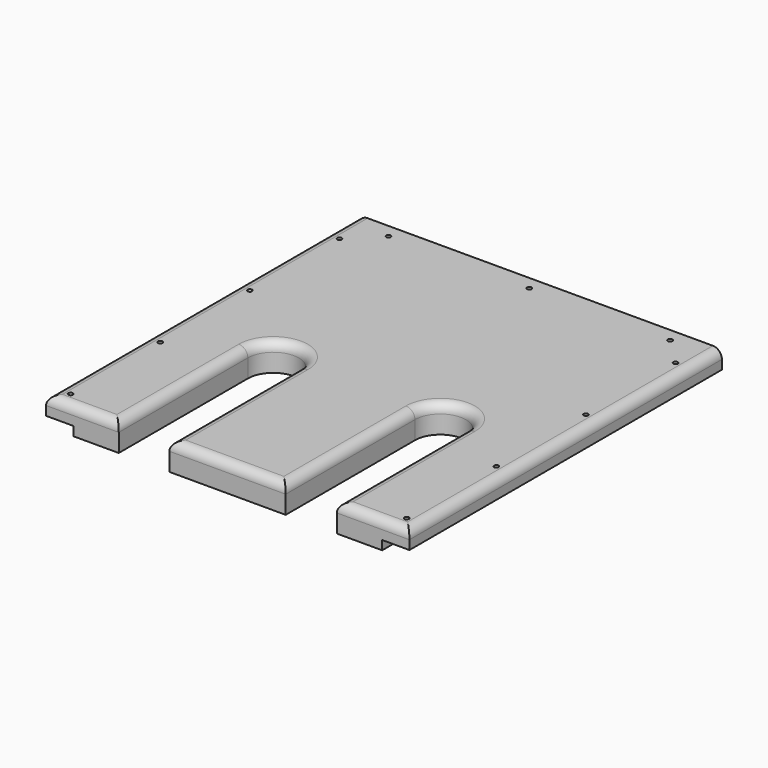
from build123d import *

# Parameters (mm, degrees)
F1_DEPTH = 19.05
F0_R     = 4.25
F2_DEPTH = 12.7
F0_R_2   = 1.5875
F3_DEPTH = 5
F4_R     = 6.35


with BuildPart() as f1:
    # F0 (on Top) → F1 (new body)
    with BuildSketch(Plane.XY):
        with BuildLine():
            Line((38.1, 270.509999), (38.1, 16.509999))
            Line((38.1, 16.509999), (69.85, 16.509999))
            Line((69.85, 16.509999), (69.85, 129.294202))
            ThreePointArc((69.85, 129.294202), (87.629852, 147.074053), (105.409704, 129.294202))
            Line((105.409704, 129.294202), (105.409704, 16.33076))
            Line((105.409704, 16.33076), (186.690297, 16.33076))
            Line((186.690297, 16.33076), (186.690297, 129.294202))
            ThreePointArc((186.690297, 129.294202), (204.470149, 147.074053), (222.25, 129.294202))
            Line((222.25, 129.294202), (222.25, 16.509999))
            Line((222.25, 16.509999), (254, 16.509999))
            Line((254, 16.509999), (254, 270.509999))
            Line((254, 270.509999), (38.1, 270.509999))
        make_face()
    extrude(amount=-F1_DEPTH)

    # F0 (on Top) → F2 (join)
    with BuildSketch(Plane.XY):
        Polygon((19.05, 289.559999), (19.05, 16.509999), (38.1, 16.509999), (38.1, 270.509999), (254, 270.509999), (254, 16.509999), (273.05, 16.509999), (273.05, 289.559999), align=None)
        with Locations((28.575, 26.034999)):
            Circle(F0_R, mode=Mode.SUBTRACT)
        with Locations((28.574999, 104.351665)):
            Circle(F0_R, mode=Mode.SUBTRACT)
        with Locations((263.525, 26.034999)):
            Circle(F0_R, mode=Mode.SUBTRACT)
        with Locations((263.525001, 104.351665)):
            Circle(F0_R, mode=Mode.SUBTRACT)
        with Locations((28.574999, 182.668321)):
            Circle(F0_R, mode=Mode.SUBTRACT)
        with Locations((28.575, 260.984987)):
            Circle(F0_R, mode=Mode.SUBTRACT)
        with Locations((47.625, 280.034989)):
            Circle(F0_R, mode=Mode.SUBTRACT)
        with Locations((263.525001, 182.668321)):
            Circle(F0_R, mode=Mode.SUBTRACT)
        with Locations((146.05, 280.034989)):
            Circle(F0_R, mode=Mode.SUBTRACT)
        with Locations((263.525, 260.984987)):
            Circle(F0_R, mode=Mode.SUBTRACT)
        with Locations((244.475, 280.034989)):
            Circle(F0_R, mode=Mode.SUBTRACT)
    extrude(amount=-F2_DEPTH)

    # F0 (on Top) → F3 (join)
    with BuildSketch(Plane.XY):
        with Locations((263.525, 26.034999)):
            Circle(F0_R)
        with Locations((263.525, 26.034999)):
            Circle(F0_R_2, mode=Mode.SUBTRACT)
        with Locations((263.525001, 104.351665)):
            Circle(F0_R)
        with Locations((263.525001, 104.351665)):
            Circle(F0_R_2, mode=Mode.SUBTRACT)
        with Locations((263.525001, 182.668321)):
            Circle(F0_R)
        with Locations((263.525001, 182.668321)):
            Circle(F0_R_2, mode=Mode.SUBTRACT)
        with Locations((263.525, 260.984987)):
            Circle(F0_R)
        with Locations((263.525, 260.984987)):
            Circle(F0_R_2, mode=Mode.SUBTRACT)
        with Locations((244.475, 280.034989)):
            Circle(F0_R)
        with Locations((244.475, 280.034989)):
            Circle(F0_R_2, mode=Mode.SUBTRACT)
        with Locations((146.05, 280.034989)):
            Circle(F0_R)
        with Locations((146.05, 280.034989)):
            Circle(F0_R_2, mode=Mode.SUBTRACT)
        with Locations((47.625, 280.034989)):
            Circle(F0_R)
        with Locations((47.625, 280.034989)):
            Circle(F0_R_2, mode=Mode.SUBTRACT)
        with Locations((28.575, 260.984987)):
            Circle(F0_R)
        with Locations((28.575, 260.984987)):
            Circle(F0_R_2, mode=Mode.SUBTRACT)
        with Locations((28.574999, 182.668321)):
            Circle(F0_R)
        with Locations((28.574999, 182.668321)):
            Circle(F0_R_2, mode=Mode.SUBTRACT)
        with Locations((28.574999, 104.351665)):
            Circle(F0_R)
        with Locations((28.574999, 104.351665)):
            Circle(F0_R_2, mode=Mode.SUBTRACT)
        with Locations((28.575, 26.034999)):
            Circle(F0_R)
        with Locations((28.575, 26.034999)):
            Circle(F0_R_2, mode=Mode.SUBTRACT)
    extrude(amount=-F3_DEPTH)

    # F4
    f4_edges = [f1.edges().sort_by_distance(p)[0] for p in [
        (19.05, 153.034999, 0),
        (44.45, 16.509999, 0),
        (69.85, 72.9021, 0),
        (146.05, 16.33076, 0),
        (186.690297, 72.812481, 0),
        (247.65, 16.509999, 0),
        (273.05, 153.034999, 0),
    ]]
    fillet(f4_edges, radius=F4_R)


solid = f1.part
